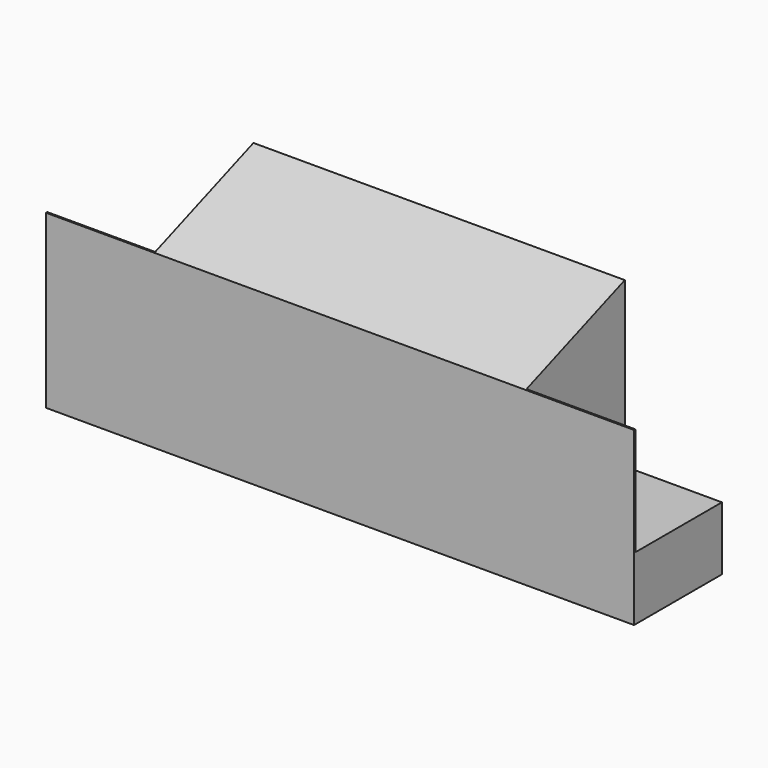
from build123d import *

# Parameters (mm, degrees)
F0_W      = 2400
F0_H      = 800
F1_DEPTH  = 1110
F2_W      = 700
F2_H      = 410
F3_DEPTH  = 710
F4_W      = 3800
F4_H      = 10
F5_DEPTH  = 700
F7_DEPTH  = 2400
F8_W      = 733.3
F8_H      = 733.3
F8_W_2    = 723.3
F8_H_2    = 723.3
F8_W_3    = 723.2999893069
F8_H_3    = 723.2999893069
F9_DEPTH  = 9
F10_W     = 2299.9
F10_H     = 251.460313797
F11_DEPTH = 670
F12_W     = 723.2999893069
F12_H     = 723.2999893069
F12_W_2   = 723.3
F12_H_2   = 723.3
F13_DEPTH = 700


with BuildPart() as f1:
    # F0 (on Top) → F1 (new body)
    with BuildSketch(Plane.XY):
        with Locations((5.0959922373, -110.7812188551)):
            Rectangle(F0_W, F0_H)
    extrude(amount=F1_DEPTH)

    # F2 (on face) → F3 (join)
    with BuildSketch(Plane.XZ.offset(510.7812188551)):
        with Locations((-1544.9040077627, 205)):
            Rectangle(F2_W, F2_H)
        with Locations((1555.0959922373, 205)):
            Rectangle(F2_W, F2_H)
    extrude(amount=-F3_DEPTH)

    # F4 (on face) → F5 (join)
    with BuildSketch(Plane.XY.offset(410)):
        with Locations((5.0959922373, -505.7812188551)):
            Rectangle(F4_W, F4_H)
    extrude(amount=F5_DEPTH)

    # F6 (on face) → F7 (join, through all)
    with BuildSketch(Plane(origin=(-1194.9040077627, 0, 0), x_dir=(0, -1, 0), z_dir=(-1, 0, 0))):
        Polygon((-289.2187811449, 1410), (-289.2187811449, 1110), (500.7812188551, 1110), (510.7812188551, 1110), align=None)
    extrude(amount=-F7_DEPTH)

    # F8 (on face) → F9 (cut)
    with BuildSketch(Plane(origin=(0, 289.2187811449, 0), x_dir=(-1, 0, 0), z_dir=(0, 1, 0))):
        with Locations((-788.4459922373, 416.65)):
            Rectangle(F8_W, F8_H)
        with Locations((-788.4459922373, 416.65)):
            Rectangle(F8_W_2, F8_H_2, mode=Mode.SUBTRACT)
        with Locations((-5.1459922373, 416.65)):
            Rectangle(F8_W, F8_H)
        with Locations((-5.1459922373, 416.65)):
            Rectangle(F8_W_3, F8_H_3, mode=Mode.SUBTRACT)
        with Locations((778.1540077627, 416.65)):
            Rectangle(F8_W, F8_H)
        with Locations((778.1540077627, 416.65)):
            Rectangle(F8_W_2, F8_H_2, mode=Mode.SUBTRACT)
    extrude(amount=-F9_DEPTH, mode=Mode.SUBTRACT)

    # F10 (on face) → F11 (cut)
    with BuildSketch(Plane(origin=(0, 289.2187811449, 0), x_dir=(-1, 0, 0), z_dir=(0, 1, 0))):
        with Locations((-5.1459922373, 945.7460641861)):
            Rectangle(F10_W, F10_H)
    extrude(amount=-F11_DEPTH, mode=Mode.SUBTRACT)

    # F12 (on face) → F13 (cut)
    with BuildSketch(Plane(origin=(0, 289.2187811449, 0), x_dir=(-1, 0, 0), z_dir=(0, 1, 0))):
        with Locations((-5.1459922373, 416.65)):
            Rectangle(F12_W, F12_H)
        with Locations((778.1540077627, 416.65)):
            Rectangle(F12_W_2, F12_H_2)
        with Locations((-788.4459922373, 416.65)):
            Rectangle(F12_W_2, F12_H_2)
    extrude(amount=-F13_DEPTH, mode=Mode.SUBTRACT)


solid = f1.part
